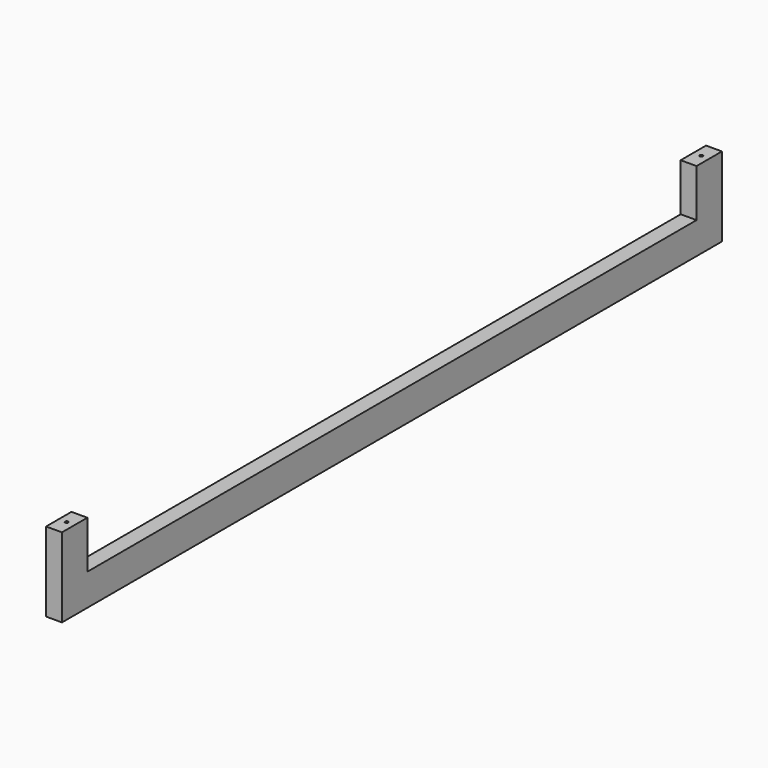
from build123d import *

# Parameters (mm, degrees)
F2_W           = 20
F2_H           = 40
F6_D           = 4
F6_DEPTH       = 100
F6_TIP         = 1.2017212381
F6_ON_F5_D     = 4
F6_ON_F5_DEPTH = 100
F6_ON_F5_TIP   = 1.2017212381


with BuildPart() as f3:
    # F3: sweep along a path in F0
    with BuildLine(Plane.YZ) as f3_path:
        Line((-500, 80), (-500, 0))
        Line((-500, 0), (500, 0))
        Line((500, 0), (500, 80))
    # F2 (on plane+point) → F3 (sweep)
    with BuildSketch(Plane.XY.offset(80)):
        with Locations((0, -500)):
            Rectangle(F2_W, F2_H)
    sweep(path=f3_path.line, transition=Transition.RIGHT)

    # F6
    with Locations(Plane.XY.offset(80)):
        with Locations((0, -500)):
            Hole(F6_D / 2, depth=F6_DEPTH)
            with Locations((0, 0, -(F6_DEPTH + F6_TIP / 2))):  # 118° drill point
                Cone(0, F6_D / 2, F6_TIP, mode=Mode.SUBTRACT)

    # F6 on F5
    with Locations(Plane.XY.offset(80)):
        with Locations((0, 500)):
            Hole(F6_ON_F5_D / 2, depth=F6_ON_F5_DEPTH)
            with Locations((0, 0, -(F6_ON_F5_DEPTH + F6_ON_F5_TIP / 2))):  # 118° drill point
                Cone(0, F6_ON_F5_D / 2, F6_ON_F5_TIP, mode=Mode.SUBTRACT)


solid = f3.part
